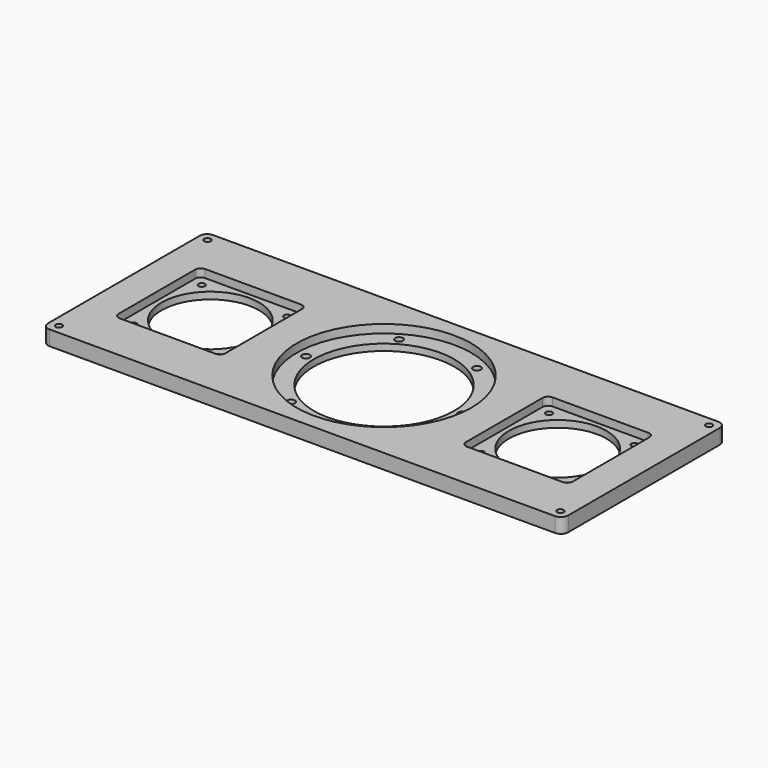
from build123d import *

# Parameters (mm, degrees)
SKETCH_W           = 280
SKETCH_H           = 110
SKETCH_R           = 37.75
SKETCH_R_2         = 26.25
SKETCH_R_3         = 1.75
PAD_DEPTH          = 8
SKETCH001_R        = 2.1
POCKET_DEPTH       = 8
POLARPATTERN_COUNT = 6
SKETCH002_R        = 47
SKETCH002_R_2      = 37.75
POCKET001_DEPTH    = 4.5
SKETCH003_R        = 26.25
POCKET002_DEPTH    = 4.3
SKETCH004_R        = 1.75
POCKET003_DEPTH    = 8
FILLET002_R        = 4


with BuildPart() as part:
    # Sketch → Pad (new body)
    with BuildSketch(Plane.XY):
        Rectangle(SKETCH_W, SKETCH_H)
        Circle(SKETCH_R, mode=Mode.SUBTRACT)
        with Locations((93.5, 0)):
            Circle(SKETCH_R_2, mode=Mode.SUBTRACT)
        with Locations((-93.5, 0)):
            Circle(SKETCH_R_2, mode=Mode.SUBTRACT)
        with Locations((116.516326, -23.016326)):
            Circle(SKETCH_R_3, mode=Mode.SUBTRACT)
        with Locations((116.516326, 23.016326)):
            Circle(SKETCH_R_3, mode=Mode.SUBTRACT)
        with Locations((70.483674, 23.016326)):
            Circle(SKETCH_R_3, mode=Mode.SUBTRACT)
        with Locations((70.483674, -23.016326)):
            Circle(SKETCH_R_3, mode=Mode.SUBTRACT)
        with Locations((-116.516326, 23.016326)):
            Circle(SKETCH_R_3, mode=Mode.SUBTRACT)
        with Locations((-70.483674, 23.016326)):
            Circle(SKETCH_R_3, mode=Mode.SUBTRACT)
        with Locations((-70.483674, -23.016326)):
            Circle(SKETCH_R_3, mode=Mode.SUBTRACT)
        with Locations((-116.516326, -23.016326)):
            Circle(SKETCH_R_3, mode=Mode.SUBTRACT)
    extrude(amount=PAD_DEPTH)

    # Sketch001 (on Face17 of Pad) → Pocket (cut)
    with BuildSketch(Plane.XY.offset(8)):
        with Locations((42, 0)):
            Circle(SKETCH001_R)
    pocket = extrude(amount=-POCKET_DEPTH, mode=Mode.SUBTRACT)

    # PolarPattern: Pocket ×6 about axis
    polarpattern_axis = Axis((0, 0, 8), (0, 0, 1))
    for i in range(1, POLARPATTERN_COUNT):
        add(pocket.rotate(polarpattern_axis, i * 360 / POLARPATTERN_COUNT), mode=Mode.SUBTRACT)

    # Sketch002 (on Face5 of PolarPattern) → Pocket001 (cut)
    with BuildSketch(Plane.XY.offset(8)):
        Circle(SKETCH002_R)
        Circle(SKETCH002_R_2, mode=Mode.SUBTRACT)
    extrude(amount=-POCKET001_DEPTH, mode=Mode.SUBTRACT)

    # Sketch003 (on Face5 of Pocket001) → Pocket002 (cut)
    with BuildSketch(Plane.XY.offset(8)):
        with BuildLine():
            Line((-119.25, 28.75), (-67.75, 28.75))
            ThreePointArc((-64.75, 25.75), (-65.62868, 27.87132), (-67.75, 28.75))
            Line((-64.75, 25.75), (-64.75, -25.75))
            ThreePointArc((-67.75, -28.75), (-65.62868, -27.87132), (-64.75, -25.75))
            Line((-67.75, -28.75), (-119.25, -28.75))
            ThreePointArc((-122.25, -25.75), (-121.37132, -27.87132), (-119.25, -28.75))
            Line((-122.25, -25.75), (-122.25, 25.75))
            ThreePointArc((-119.25, 28.75), (-121.37132, 27.87132), (-122.25, 25.75))
        make_face()
        with Locations((-93.5, 0)):
            Circle(SKETCH003_R, mode=Mode.SUBTRACT)
        with BuildLine():
            Line((67.75, 28.75), (119.25, 28.75))
            ThreePointArc((122.25, 25.75), (121.37132, 27.87132), (119.25, 28.75))
            Line((122.25, 25.75), (122.25, -25.75))
            ThreePointArc((119.25, -28.75), (121.37132, -27.87132), (122.25, -25.75))
            Line((119.25, -28.75), (67.75, -28.75))
            ThreePointArc((64.75, -25.75), (65.62868, -27.87132), (67.75, -28.75))
            Line((64.75, -25.75), (64.75, 25.75))
            ThreePointArc((67.75, 28.75), (65.62868, 27.87132), (64.75, 25.75))
        make_face()
        with Locations((93.5, 0)):
            Circle(SKETCH003_R, mode=Mode.SUBTRACT)
    extrude(amount=-POCKET002_DEPTH, mode=Mode.SUBTRACT)

    # Sketch004 (on Face5 of Pocket002) → Pocket003 (cut)
    with BuildSketch(Plane.XY.offset(8)):
        with Locations((-135, 50)):
            Circle(SKETCH004_R)
        with Locations((-135, -50)):
            Circle(SKETCH004_R)
        with Locations((135, -50)):
            Circle(SKETCH004_R)
        with Locations((135, 50)):
            Circle(SKETCH004_R)
    extrude(amount=-POCKET003_DEPTH, mode=Mode.SUBTRACT)

    # Fillet002
    fillet002_edges = [part.edges().sort_by_distance(p)[0] for p in [
        (140, -55, 4),
        (-140, -55, 4),
        (-140, 55, 4),
        (140, 55, 4),
    ]]
    fillet(fillet002_edges, radius=FILLET002_R)


solid = part.part
